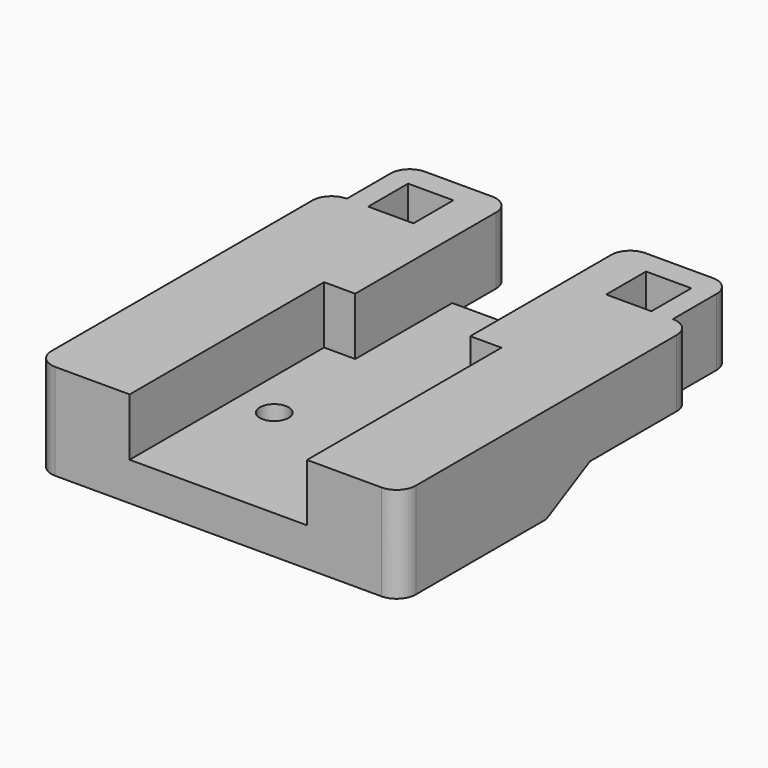
from build123d import *

# Parameters (mm, degrees)
SKETCH_W        = 4.72
SKETCH_H        = 5.2
PAD_DEPTH       = 10
POCKET_DEPTH    = 38.001
POCKET005_DEPTH = 6
SKETCH003_R     = 1.5
POCKET006_DEPTH = 5
FILLET_R        = 1.99


with BuildPart() as part:
    # Sketch → Pad (new body)
    with BuildSketch(Plane.XY):
        Polygon((-19, 19), (-19, -19), (19, -19), (19, 19), (17, 19), (17, 26.7), (6, 26.7), (6, 19), (-6, 19), (-6, 26.7), (-17, 26.7), (-17, 19), align=None)
        with Locations((-12.41, 21.6)):
            Rectangle(SKETCH_W, SKETCH_H, mode=Mode.SUBTRACT)
        with Locations((12.41, 21.6)):
            Rectangle(SKETCH_W, SKETCH_H, mode=Mode.SUBTRACT)
    extrude(amount=PAD_DEPTH)

    # Sketch001 (on Face3 of Pad) → Pocket (cut, through all)
    with BuildSketch(Plane.YZ.offset(19)):
        Polygon((26.7, 3), (26.7, 0), (0, 0), (5.7, 3), align=None)
    extrude(amount=-POCKET_DEPTH, mode=Mode.SUBTRACT)

    # Sketch002 (on Face6 of Pocket) → Pocket005 (cut)
    with BuildSketch(Plane.XY.offset(10)):
        Polygon((-9.25, -19), (9.25, -19), (9.25, 6.35), (6, 6.35), (6, 19), (-6, 19), (-6, 6.35), (-9.25, 6.35), align=None)
    extrude(amount=-POCKET005_DEPTH, mode=Mode.SUBTRACT)

    # Sketch003 → Pocket006 (cut)
    with BuildSketch(Plane.XY.offset(4)):
        with Locations((-5.25, -5.15)):
            Circle(SKETCH003_R)
        with Locations((5.25, -5.15)):
            Circle(SKETCH003_R)
    extrude(amount=-POCKET006_DEPTH, mode=Mode.SUBTRACT)

    # Fillet
    fillet_edges = [part.edges().sort_by_distance(p)[0] for p in [
        (17, 26.7, 6.5),
        (6, 26.7, 6.5),
        (-6, 26.7, 6.5),
        (-17, 26.7, 6.5),
        (-19, 19, 6.5),
        (19, 19, 6.5),
        (19, -19, 5),
        (-19, -19, 5),
    ]]
    fillet(fillet_edges, radius=FILLET_R)


solid = part.part
